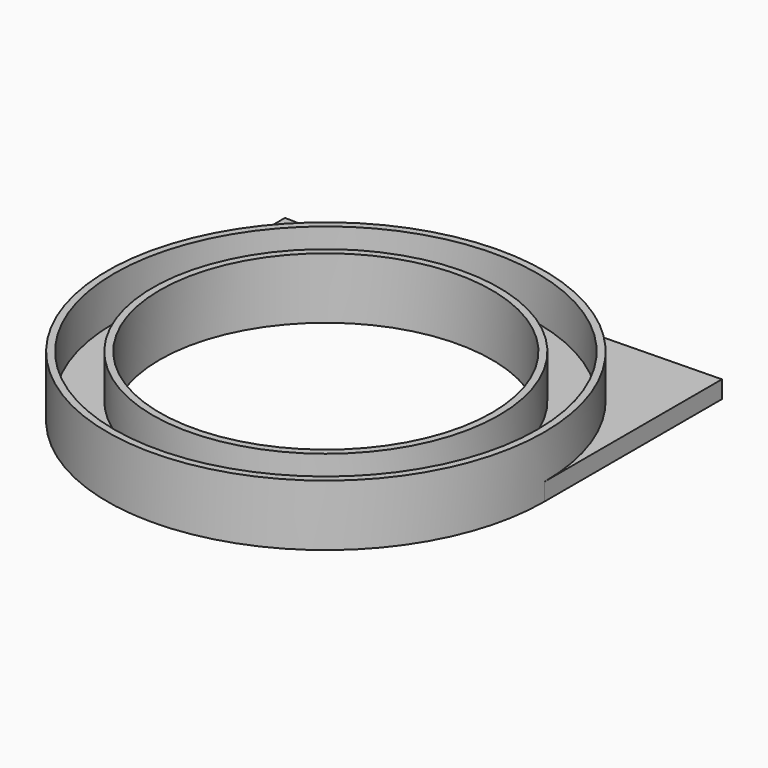
from build123d import *

# Parameters (mm, degrees)
F0_R     = 47.5
F1_DEPTH = 5
F2_R     = 62.5
F2_R_2   = 60.5
F2_R_3   = 49.5
F2_R_4   = 47.5
F3_DEPTH = 12.5


with BuildPart() as f1:
    # F0 (on Top) → F1 (new body)
    with BuildSketch(Plane.XY):
        with BuildLine():
            ThreePointArc((-7.47e-08, 62.5), (-44.1941738506, 44.1941737978), (-62.5, 0))
            ThreePointArc((-62.5, 0), (0, -62.5), (62.5, 0))
            ThreePointArc((62.5, 0), (44.1941737978, 44.1941738506), (-7.47e-08, 62.5))
        make_face()
        Circle(F0_R, mode=Mode.SUBTRACT)
        with BuildLine():
            Line((-62.5, 63.5), (-62.5, 0))
            ThreePointArc((-62.5, 0), (-44.1941738506, 44.1941737978), (-7.47e-08, 62.5))
            add(Edge.make_bspline(
                [(-62.5, 63.5), (-41.6666666667, 63), (-20.8333333333, 62.5), (0, 62.5)],
                knots=[0, 0, 0, 0, 0.5, 0.5, 0.5, 0.5], degree=3))
        make_face()
        with BuildLine():
            ThreePointArc((-7.47e-08, 62.5), (44.1941737978, 44.1941738506), (62.5, 0))
            Line((62.5, 0), (62.5, 63.5))
            add(Edge.make_bspline(
                [(0, 62.5), (20.8333333333, 62.5), (41.6666666667, 63), (62.5, 63.5)],
                knots=[0.5, 0.5, 0.5, 0.5, 1, 1, 1, 1], degree=3))
        make_face()
    extrude(amount=F1_DEPTH)

    # F2 (on face) → F3 (join)
    with BuildSketch(Plane.XY.offset(5)):
        Circle(F2_R)
        Circle(F2_R_2, mode=Mode.SUBTRACT)
        Circle(F2_R_3)
        Circle(F2_R_4, mode=Mode.SUBTRACT)
    extrude(amount=F3_DEPTH)


solid = f1.part
